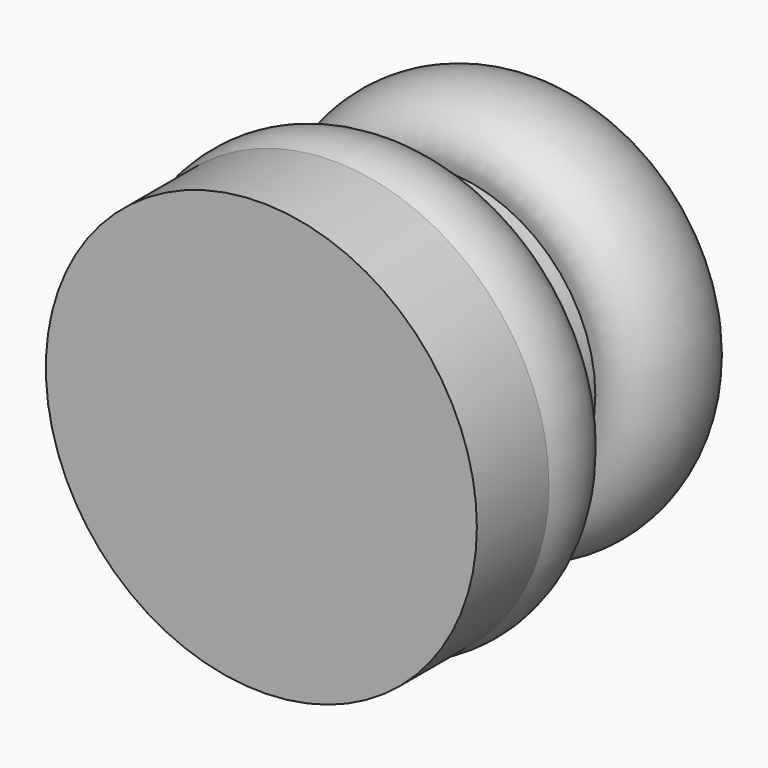
from build123d import *


with BuildPart() as f1:
    # F0 (on Top) → F1 (revolve)
    with BuildSketch(Plane.XY):
        with BuildLine():
            Line((32.2443948891, 40.8806465566), (0, 40.8806465566))
            Line((0, 40.8806465566), (0, -7.8476248309))
            Line((0, -7.8476248309), (23.1651897523, -7.8476248309))
            ThreePointArc((23.1651897523, -7.8476248309), (23.2494349236, -9.7712701453), (23.5015253586, -11.6801857948))
            Line((23.5015253586, -11.6801857948), (0, -11.6801857948))
            Line((0, -11.6801857948), (0, -43.4356927872))
            Line((0, -43.4356927872), (65.6097978354, -43.4356927872))
            Line((65.6097978354, -43.4356927872), (65.6097978354, -15.9950943577))
            ThreePointArc((65.6097978354, -15.9950943577), (63.3830284541, 4.4996240423), (45.1694689691, 14.1566543859))
            Line((45.1694689691, 14.1566543859), (45.1694689691, 27.1900529973))
            add(Edge.make_bspline(
                [(45.1694689691, 27.1900529973), (64.1933435471, 21.4488804325), (61.7417399221, 46.9721411104), (59.2901362971, 72.4954017883), (41.1770152264, 68.7548624879), (23.0638941557, 65.0143231875), (32.2443948891, 40.8806465566)],
                knots=[5.8712915917, 5.8712915917, 5.8712915917, 7.6289194311, 7.6289194311, 9.3865472704, 9.3865472704, 11.1441751097, 11.1441751097, 11.1441751097], degree=2, weights=[1, 0.638064854, 1, 0.638064854, 1, 0.638064854, 1]))
        make_face()
    revolve(axis=Axis((0, 0.4562586546, 0), (0, -1, 0)))


solid = f1.part
